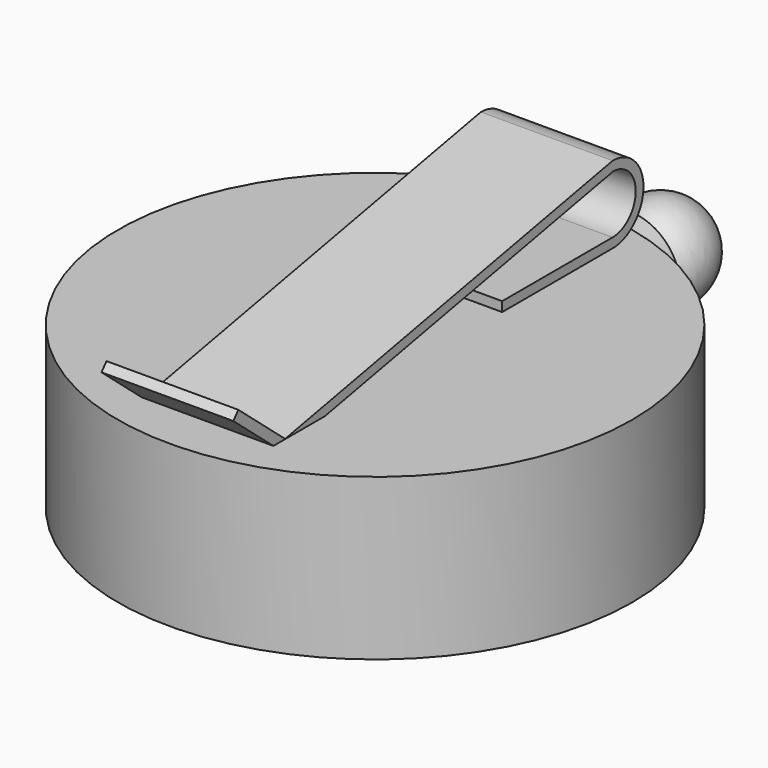
from build123d import *

# Parameters (mm, degrees)
F0_R     = 16
F1_DEPTH = 10
F3_DEPTH = 4.1


with BuildPart() as f1:
    # F0 (on Top) → F1 (new body)
    with BuildSketch(Plane.XY):
        Circle(F0_R)
    extrude(amount=F1_DEPTH)

    # F2 (on Right) → F3 (join, symmetric)
    with BuildSketch(Plane.YZ):
        with BuildLine():
            Line((4.757335, 10.697019), (4.757335, 10.097019))
            Line((4.757335, 10.097019), (13.346032, 10.097019))
            ThreePointArc((13.346032, 10.097019), (15.746032, 12.497019), (13.346032, 14.897019))
            Line((13.346032, 14.897019), (-12.123428, 10.016164))
            Line((-12.123428, 10.016164), (-15.761921, 13.08867))
            Line((-15.761921, 13.08867), (-16.14903, 12.630252))
            Line((-16.14903, 12.630252), (-12.291747, 9.37299))
            Line((-12.291747, 9.37299), (13.398945, 14.296242))
            ThreePointArc((13.398945, 14.296242), (15.145838, 12.47056), (13.346032, 10.697019))
            Line((13.346032, 10.697019), (4.757335, 10.697019))
        make_face()
    extrude(amount=F3_DEPTH, both=True)

    # F5 (on offset) → F6 (revolve)
    with BuildSketch(Plane.XY.offset(5)):
        with BuildLine():
            Line((-3.5, 15.612495), (0, 15.612495))
            Line((0, 15.612495), (0, 25.177301))
            ThreePointArc((0, 25.177301), (-2.701335, 23.482211), (-2.35, 20.312495))
            Line((-2.35, 20.312495), (-2.35, 19.812495))
            Line((-2.35, 19.812495), (-3.15, 19.812495))
            Line((-3.15, 19.812495), (-3.15, 17.512495))
            Line((-3.15, 17.512495), (-3.5, 17.512495))
            Line((-3.5, 17.512495), (-3.5, 15.612495))
        make_face()
    revolve(axis=Axis((0, 20.394898, 5), (0, -1, 0)))


solid = f1.part
